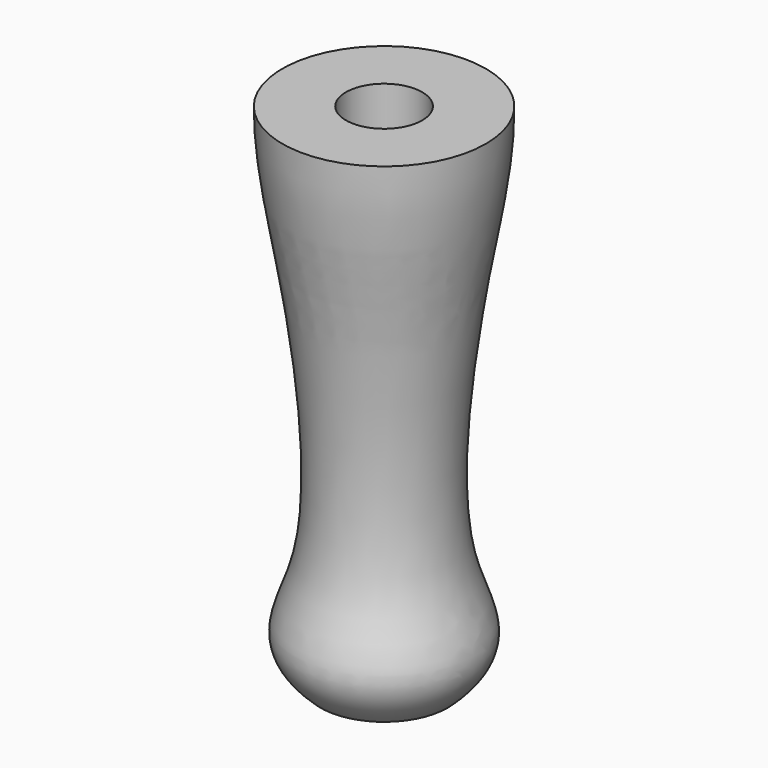
from build123d import *


with BuildPart() as f1:
    # F0 (on Front) → F1 (revolve)
    with BuildSketch(Plane.XZ):
        with BuildLine():
            Line((9.525, 63.5), (9.525, -63.5))
            Line((9.525, -63.5), (15.875, -63.5))
            add(Edge.make_bspline(
                [(25.4, 63.5), (25.4, 50.9991330852), (19.9491379893, 28.5975938893), (11.5753942361, -38.6181777876), (27.1177440882, -53.317386657), (15.875, -63.5)],
                knots=[0, 0, 0, 0, 0.3174282083, 0.7316166106, 1, 1, 1, 1], degree=3))
            Line((25.4, 63.5), (9.525, 63.5))
        make_face()
    revolve(axis=Axis((0, 0, 0), (0, 0, -1)))


solid = f1.part
